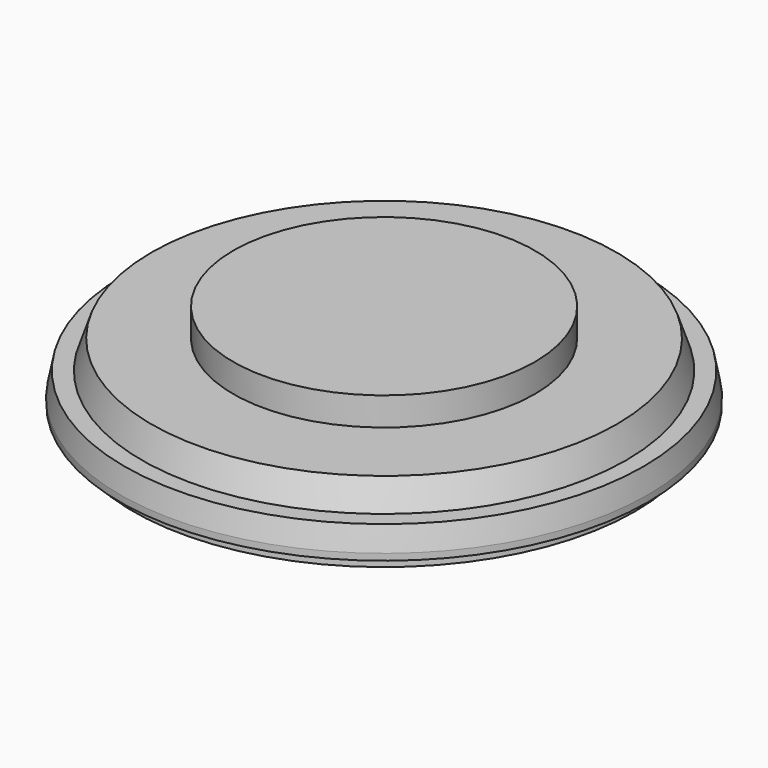
from build123d import *


with BuildPart() as part:
    # Sketch → Revolution (revolve)
    with BuildSketch(Plane.XZ):
        with BuildLine():
            Line((0, 5.25), (8, 5.25))
            Line((8, 5.25), (8, 3.75))
            Line((8, 3.75), (12.34, 3.75))
            Line((12.34, 3.75), (12.85, 2.24))
            Line((12.85, 2.24), (13.760654, 2.24))
            Line((13.760654, 2.24), (14, 1))
            Line((14, 1), (13.99, 0.648005))
            Line((13.99, 0.648005), (13.315, 0.65))
            Line((13.315, 0.65), (13.315, 0))
            Line((13.315, 0), (12.535, 0))
            Line((12.535, 0), (12.535, 0.8))
            Line((12.535, 0.8), (6.9, 1.137238))
            ThreePointArc((0, 0), (3.496546, 0.286211), (6.9, 1.137238))
            Line((0, 0), (0, 5.25))
        make_face()
    revolve(axis=Axis((0, 0, 0), (0, 0, 1)))


solid = part.part
